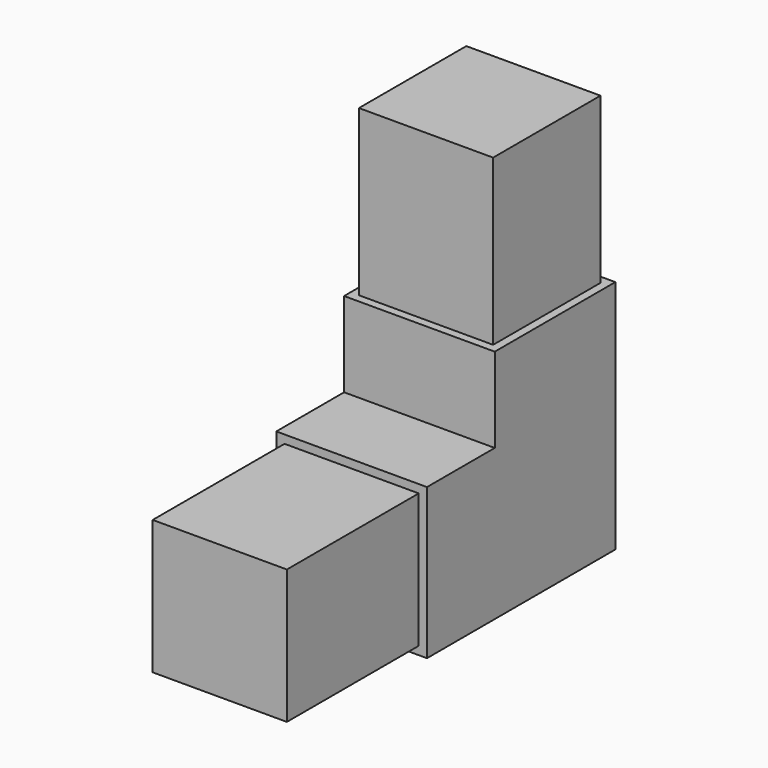
from build123d import *

# Parameters (mm, degrees)
F0_W     = 32
F0_H     = 32
F1_DEPTH = 32
F2_W     = 32
F2_H     = 32
F3_DEPTH = 18
F4_W     = 32
F4_H     = 32
F5_DEPTH = 18
F6_W     = 28.5
F6_H     = 28.5
F7_DEPTH = 35
F8_W     = 28.5
F8_H     = 28.5
F9_DEPTH = 35


with BuildPart() as f1:
    # F0 (on Front) → F1 (new body)
    with BuildSketch(Plane.XZ):
        Rectangle(F0_W, F0_H)
    extrude(amount=F1_DEPTH)

    # F2 (on face) → F3 (join)
    with BuildSketch(Plane.XY.offset(16)):
        with Locations((0, -16)):
            Rectangle(F2_W, F2_H)
    extrude(amount=F3_DEPTH)

    # F4 (on face) → F5 (join)
    with BuildSketch(Plane.XZ.offset(32)):
        Rectangle(F4_W, F4_H)
    extrude(amount=F5_DEPTH)

    # F6 (on face) → F7 (join)
    with BuildSketch(Plane.XY.offset(34)):
        with Locations((0, -16)):
            Rectangle(F6_W, F6_H)
    extrude(amount=F7_DEPTH)

    # F8 (on face) → F9 (join)
    with BuildSketch(Plane.XZ.offset(50)):
        Rectangle(F8_W, F8_H)
    extrude(amount=F9_DEPTH)


solid = f1.part
